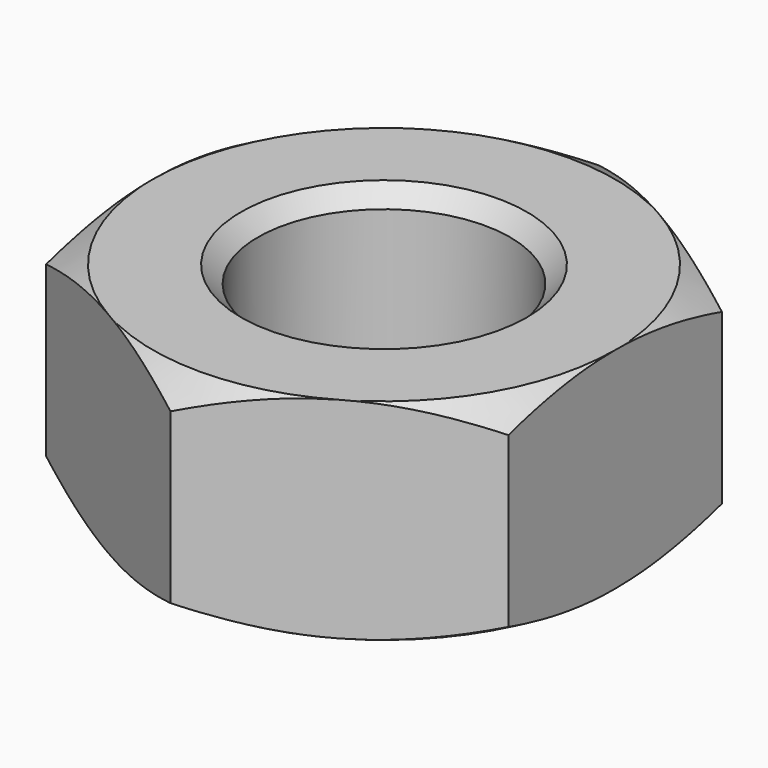
from build123d import *

# Parameters (mm, degrees)
SKETCH021_R     = 1.5
PAD011_DEPTH    = 1.25
CHAMFER004_SIZE = 0.2


with BuildPart() as part:
    # Sketch021 → Pad011 (new body, symmetric)
    with BuildSketch(Plane.XY):
        Polygon((2.75, -1.5877132403), (2.75, 1.5877132403), (0, 3.1754264805), (-2.75, 1.5877132403), (-2.75, -1.5877132403), (0, -3.1754264805), align=None)
        Circle(SKETCH021_R, mode=Mode.SUBTRACT)
    extrude(amount=PAD011_DEPTH, both=True)

    # Sketch020 → Groove002 (revolve, cut)
    with BuildSketch(Plane.YZ):
        Polygon((-2.75, 1.25), (-3.5, 0.8169872981), (-3.5, 1.25), align=None)
        Polygon((-2.75, -1.25), (-3.5, -0.8169872981), (-3.5, -1.25), align=None)
    revolve(axis=Axis((0, 0, 0), (0, 0, 1)), mode=Mode.SUBTRACT)

    # Chamfer004
    chamfer004_edges = [part.edges().sort_by_distance(p)[0] for p in [
        (-1.5, 0, 1.25),
        (-1.5, 0, -1.25),
    ]]
    chamfer(chamfer004_edges, length=CHAMFER004_SIZE)


solid = part.part
